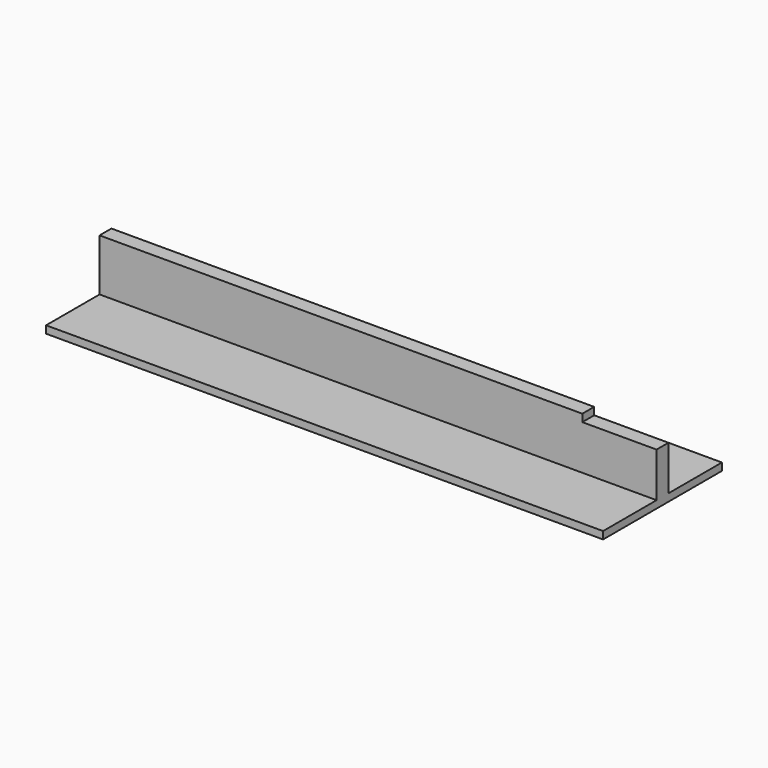
from build123d import *

# Parameters (mm, degrees)
PAD_DEPTH         = 75
SKETCH001_W       = 10
SKETCH001_H       = 1
POCKET_DEPTH      = 10.001
POCKET_DEPTH_BACK = -10.001


with BuildPart() as part:
    # Sketch → Pad (new body)
    with BuildSketch(Plane.YZ):
        Polygon((-10, 1), (-1, 1), (-1, 8), (1, 8), (1, 1), (10, 1), (10, 0), (-10, 0), align=None)
    extrude(amount=PAD_DEPTH)

    # Sketch001 → Pocket (cut, two sides)
    with BuildSketch(Plane.XZ) as pocket_sk:
        with Locations((70, 7.5)):
            Rectangle(SKETCH001_W, SKETCH001_H)
    extrude(amount=-POCKET_DEPTH, mode=Mode.SUBTRACT)
    extrude(pocket_sk.sketch, amount=-POCKET_DEPTH_BACK, mode=Mode.SUBTRACT)


solid = part.part
